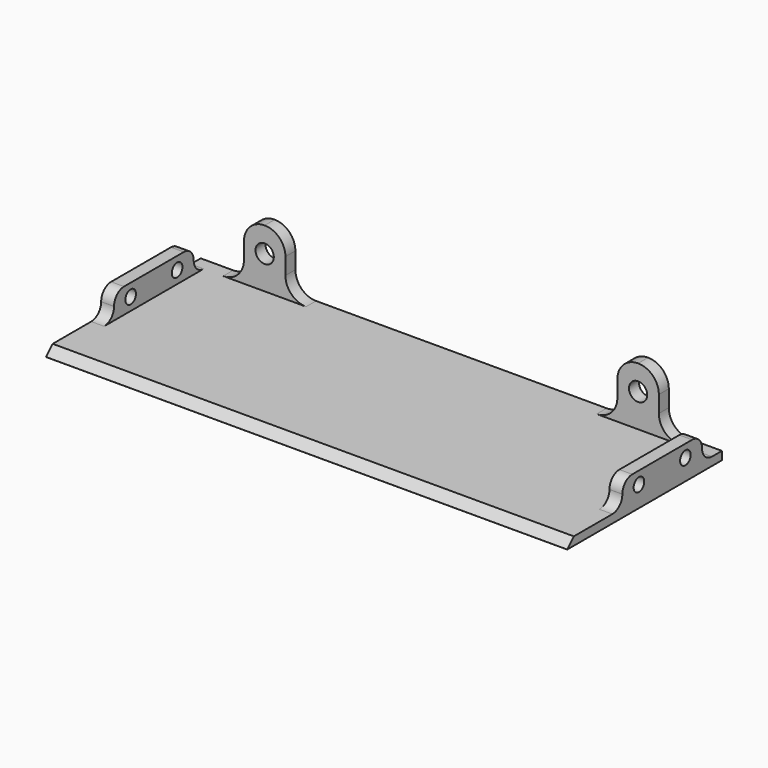
from build123d import *

# Parameters (mm, degrees)
SKETCH013_W     = 125.6
SKETCH013_H     = 46.6
PAD007_DEPTH    = 2
CHAMFER_SIZE    = 1.99
SKETCH014_W     = 3.1
SKETCH014_H     = 24
PAD008_DEPTH    = 6
SKETCH015_R     = 1.6
POCKET002_DEPTH = 125.601
SKETCH016_W     = 10
SKETCH016_H     = 3
PAD009_DEPTH    = 14
SKETCH017_R     = 2.2
POCKET003_DEPTH = 5
FILLET001_R     = 4.99
FILLET002_R     = 2.99


with BuildPart() as part:
    # Sketch013 → Pad007 (new body)
    with BuildSketch(Plane.XY.offset(-25)):
        with Locations((0, 1.7)):
            Rectangle(SKETCH013_W, SKETCH013_H)
    extrude(amount=PAD007_DEPTH)

    # Chamfer
    chamfer_edges = [part.edges().sort_by_distance(p)[0] for p in [
        (0, -21.6, -23),
    ]]
    chamfer(chamfer_edges, length=CHAMFER_SIZE)

    # Sketch014 → Pad008 (new body)
    with BuildSketch(Plane.XY.offset(-23)):
        with Locations((-61.25, 7)):
            Rectangle(SKETCH014_W, SKETCH014_H)
    pad008 = extrude(amount=PAD008_DEPTH)

    # Mirrored: Pad008 across Sketch014 V_Axis
    add(pad008.mirror(Plane(origin=(0, 0, -23), x_dir=(0, 0, 1), z_dir=(1, 0, 0))))

    # Sketch015 → Pocket002 (cut, through all)
    with BuildSketch(Plane(origin=(-62.8, 0, -25), x_dir=(0, -1, 0), z_dir=(-1, 0, 0))):
        with Locations((0, 5)):
            Circle(SKETCH015_R)
        with Locations((-14, 5)):
            Circle(SKETCH015_R)
    extrude(amount=-POCKET002_DEPTH, mode=Mode.SUBTRACT)

    # Sketch016 → Pad009 (new body)
    with BuildSketch(Plane.XY.offset(-23)):
        with Locations((-45, 23.5)):
            Rectangle(SKETCH016_W, SKETCH016_H)
        with Locations((45, 23.5)):
            Rectangle(SKETCH016_W, SKETCH016_H)
    extrude(amount=PAD009_DEPTH)

    # Sketch017 → Pocket003 (cut)
    with BuildSketch(Plane(origin=(0, 25, -25), x_dir=(-1, 0, 0), z_dir=(0, 1, 0))):
        with Locations((45, 10)):
            Circle(SKETCH017_R)
    pocket003 = extrude(amount=-POCKET003_DEPTH, mode=Mode.SUBTRACT)

    # Mirrored001: Pocket003 across Sketch017 V_Axis
    add(pocket003.mirror(Plane(origin=(0, 25, -25), x_dir=(0, 1, 0), z_dir=(-1, 0, 0))), mode=Mode.SUBTRACT)

    # Fillet001
    fillet001_edges = [part.edges().sort_by_distance(p)[0] for p in [
        (50, 23.5, -23),
        (50, 23.5, -9),
        (40, 23.5, -9),
        (40, 23.5, -23),
        (-50, 23.5, -23),
        (-50, 23.5, -9),
        (-40, 23.5, -9),
        (-40, 23.5, -23),
    ]]
    fillet(fillet001_edges, radius=FILLET001_R)

    # Fillet002
    fillet002_edges = [part.edges().sort_by_distance(p)[0] for p in [
        (-61.25, 19, -23),
        (-61.25, 19, -17),
        (-61.25, -5, -23),
        (-61.25, -5, -17),
        (61.25, -5, -17),
        (61.25, -5, -23),
        (61.25, 19, -17),
        (61.25, 19, -23),
    ]]
    fillet(fillet002_edges, radius=FILLET002_R)


solid = part.part
